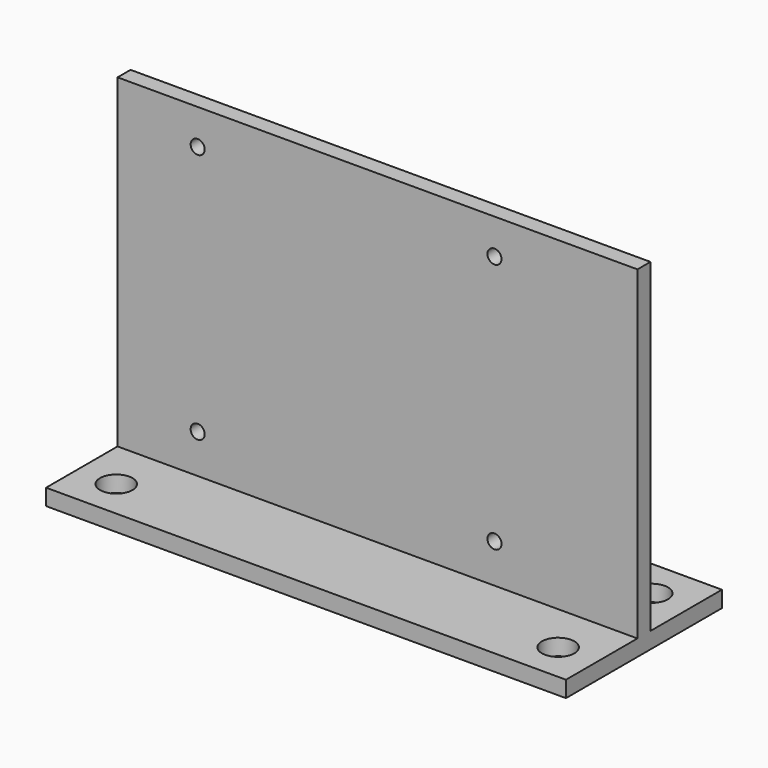
from build123d import *

# Parameters (mm, degrees)
F0_W     = 101.6
F0_H     = 38.1
F0_R     = 3.175
F1_DEPTH = 3.175
F2_W     = 101.6
F2_H     = 63.5
F2_R     = 1.37541
F3_DEPTH = 1.5875


with BuildPart() as f1:
    # F0 (on Top) → F1 (new body)
    with BuildSketch(Plane.XY):
        Rectangle(F0_W, F0_H)
        with Locations((-43.18, -11.43)):
            Circle(F0_R, mode=Mode.SUBTRACT)
        with Locations((43.18, -11.43)):
            Circle(F0_R, mode=Mode.SUBTRACT)
        with Locations((-43.18, 11.43)):
            Circle(F0_R, mode=Mode.SUBTRACT)
        with Locations((43.18, 11.43)):
            Circle(F0_R, mode=Mode.SUBTRACT)
    extrude(amount=F1_DEPTH)

    # F2 (on Front) → F3 (join, symmetric)
    with BuildSketch(Plane.XZ):
        with Locations((0, 34.925)):
            Rectangle(F2_W, F2_H)
        with Locations((-35.1409, 10.795)):
            Circle(F2_R, mode=Mode.SUBTRACT)
        with Locations((22.86, 10.795)):
            Circle(F2_R, mode=Mode.SUBTRACT)
        with Locations((-35.1409, 59.79414)):
            Circle(F2_R, mode=Mode.SUBTRACT)
        with Locations((22.86, 59.79414)):
            Circle(F2_R, mode=Mode.SUBTRACT)
    extrude(amount=F3_DEPTH, both=True)


solid = f1.part
